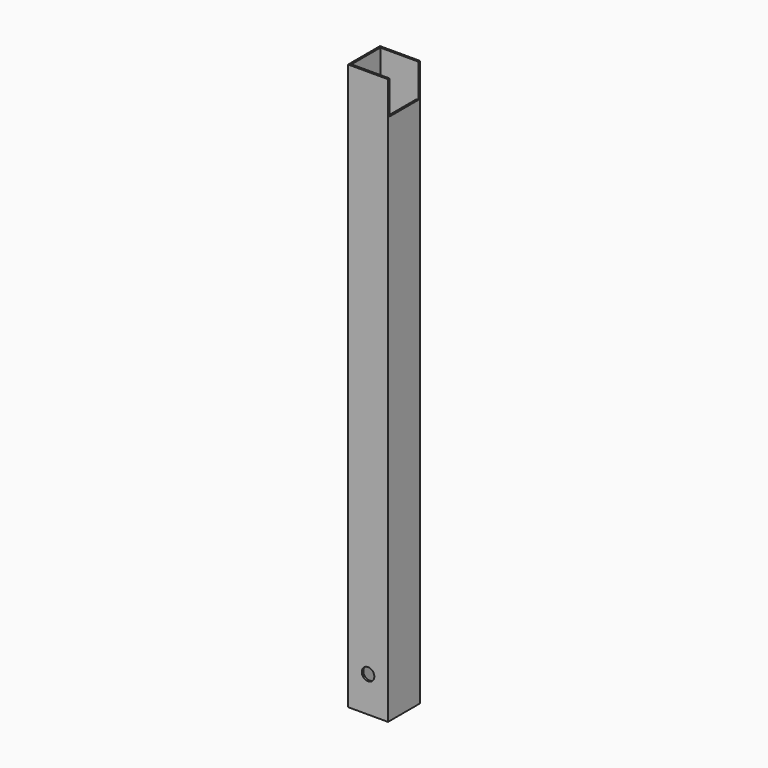
from build123d import *

# Parameters (mm, degrees)
F0_W     = 63.5
F0_H     = 63.5
F0_W_2   = 57.5
F0_H_2   = 57.5
F1_DEPTH = 900
F2_W     = 57.5
F2_H     = 53.5
F3_DEPTH = 3
F4_R     = 10
F5_DEPTH = 3


with BuildPart() as f1:
    # F0 (on Top) → F1 (new body)
    with BuildSketch(Plane.XY):
        with Locations((1.218427, -1.076905)):
            Rectangle(F0_W, F0_H)
        with Locations((1.218427, -1.076905)):
            Rectangle(F0_W_2, F0_H_2, mode=Mode.SUBTRACT)
    extrude(amount=F1_DEPTH)

    # F2 (on face) → F3 (cut)
    with BuildSketch(Plane.YZ.offset(32.968427)):
        with Locations((-1.076905, 873.25)):
            Rectangle(F2_W, F2_H)
    extrude(amount=-F3_DEPTH, mode=Mode.SUBTRACT)

    # F4 (on face) → F5 (cut)
    with BuildSketch(Plane.XZ.offset(32.826905)):
        with Locations((1.218427, 56.5)):
            Circle(F4_R)
    extrude(amount=-F5_DEPTH, mode=Mode.SUBTRACT)


solid = f1.part
